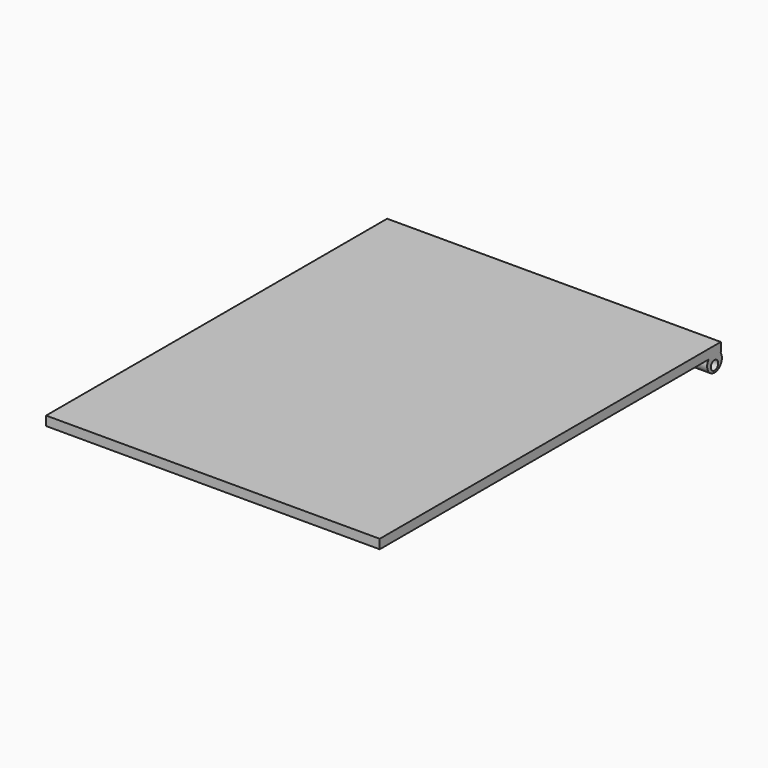
from build123d import *

# Parameters (mm, degrees)
F0_W     = 36
F0_H     = 46
F1_DEPTH = 1
F2_R     = 0.5
F3_DEPTH = 18


with BuildPart() as f1:
    # F0 (on Top) → F1 (new body)
    with BuildSketch(Plane.XY):
        Rectangle(F0_W, F0_H)
    extrude(amount=F1_DEPTH)

    # F2 (on Right) → F3 (join, symmetric)
    with BuildSketch(Plane.YZ):
        with BuildLine():
            Line((22.966417, 0), (21.345964, 0))
            ThreePointArc((21.345964, 0), (22.15619, -1.575722), (22.966417, 0))
        make_face()
        with Locations((22.15619, -0.874182)):
            Circle(F2_R, mode=Mode.SUBTRACT)
    extrude(amount=F3_DEPTH, both=True)


solid = f1.part
